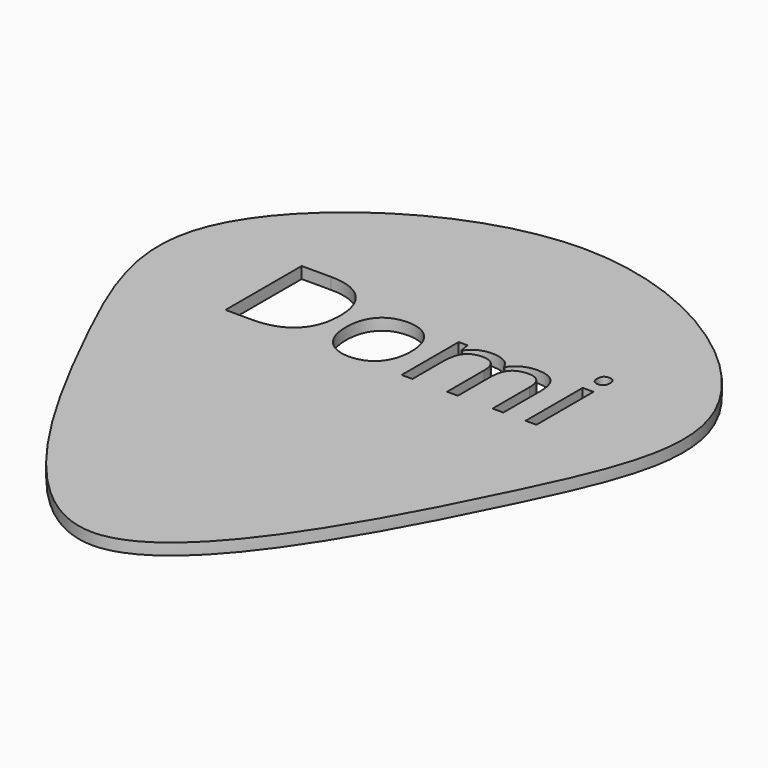
from build123d import *

# Parameters (mm, degrees)
F0_W     = 0.5631510417
F0_H     = 3.7163628472
F1_DEPTH = 0.6


with BuildPart() as f1:
    # F0 (on Top) → F1 (new body)
    with BuildSketch(Plane.XY):
        with BuildLine():
            add(Edge.make_bspline(
                [(0, -13.3484860004), (-4.1261352973, -13.3484860004), (-11.5695883563, 0.5525926673), (-16.058339722, 11.46014805), (0, 22.5159383761), (16.058339722, 11.46014805), (11.5695883563, 0.5525926673), (4.1261352973, -13.3484860004), (0, -13.3484860004)],
                knots=[0, 0, 0, 0, 0.18262571, 0.3294525753, 0.5, 0.6705474247, 0.81737429, 1, 1, 1, 1], degree=3))
        make_face()
        with BuildLine():
            add(Edge.make_bspline(
                [(-4.6929253472, 9.6457678287), (-4.0521918403, 9.0050343217), (-4.0521918403, 7.8548607106)],
                knots=[0, 0, 0, 1, 1, 1], degree=2))
            add(Edge.make_bspline(
                [(-4.0521918403, 7.8548607106), (-4.0521918403, 6.6276471689), (-4.7184244792, 5.9782331064)],
                knots=[0, 0, 0, 1, 1, 1], degree=2))
            add(Edge.make_bspline(
                [(-4.7184244792, 5.9782331064), (-5.3846571181, 5.3288190439), (-6.6357421875, 5.3288190439)],
                knots=[0, 0, 0, 1, 1, 1], degree=2))
            Line((-6.6357421875, 5.3288190439), (-8.0094401042, 5.3288190439))
            Line((-8.0094401042, 5.3288190439), (-8.0094401042, 10.2865013356))
            Line((-8.0094401042, 10.2865013356), (-6.4903428819, 10.2865013356))
            add(Edge.make_bspline(
                [(-6.4903428819, 10.2865013356), (-5.3336588542, 10.2865013356), (-4.6929253472, 9.6457678287)],
                knots=[0, 0, 0, 1, 1, 1], degree=2))
        make_face(mode=Mode.SUBTRACT)
        with BuildLine():
            add(Edge.make_bspline(
                [(-0.283203125, 8.594335537), (0.1763237847, 8.0751298078), (0.1763237847, 7.1907982106)],
                knots=[0, 0, 0, 1, 1, 1], degree=2))
            add(Edge.make_bspline(
                [(0.1763237847, 7.1907982106), (0.1763237847, 6.2815100162), (-0.2810329861, 5.7709848425)],
                knots=[0, 0, 0, 1, 1, 1], degree=2))
            add(Edge.make_bspline(
                [(-0.2810329861, 5.7709848425), (-0.7383897569, 5.2604596689), (-1.5456814236, 5.2604596689)],
                knots=[0, 0, 0, 1, 1, 1], degree=2))
            add(Edge.make_bspline(
                [(-1.5456814236, 5.2604596689), (-2.0448133681, 5.2604596689), (-2.4310980903, 5.4948346689)],
                knots=[0, 0, 0, 1, 1, 1], degree=2))
            add(Edge.make_bspline(
                [(-2.4310980903, 5.4948346689), (-2.8173828125, 5.7292096689), (-3.0278862847, 6.166492655)],
                knots=[0, 0, 0, 1, 1, 1], degree=2))
            add(Edge.make_bspline(
                [(-3.0278862847, 6.166492655), (-3.2383897569, 6.6037756412), (-3.2383897569, 7.1907982106)],
                knots=[0, 0, 0, 1, 1, 1], degree=2))
            add(Edge.make_bspline(
                [(-3.2383897569, 7.1907982106), (-3.2383897569, 8.0990013356), (-2.7837456597, 8.6062713009)],
                knots=[0, 0, 0, 1, 1, 1], degree=2))
            add(Edge.make_bspline(
                [(-2.7837456597, 8.6062713009), (-2.3291015625, 9.1135412662), (-1.5218098958, 9.1135412662)],
                knots=[0, 0, 0, 1, 1, 1], degree=2))
            add(Edge.make_bspline(
                [(-1.5218098958, 9.1135412662), (-0.7427300347, 9.1135412662), (-0.283203125, 8.594335537)],
                knots=[0, 0, 0, 1, 1, 1], degree=2))
        make_face(mode=Mode.SUBTRACT)
        with BuildLine():
            Line((6.4632161458, 5.3288190439), (5.9011501736, 5.3288190439))
            Line((5.9011501736, 5.3288190439), (5.9011501736, 7.7463537662))
            add(Edge.make_bspline(
                [(5.9011501736, 7.7463537662), (5.9011501736, 8.1912322384), (5.7112630208, 8.4131289398)],
                knots=[0, 0, 0, 1, 1, 1], degree=2))
            add(Edge.make_bspline(
                [(5.7112630208, 8.4131289398), (5.5213758681, 8.6350256412), (5.1209852431, 8.6350256412)],
                knots=[0, 0, 0, 1, 1, 1], degree=2))
            add(Edge.make_bspline(
                [(5.1209852431, 8.6350256412), (4.5958116319, 8.6350256412), (4.3446180556, 8.3333763356)],
                knots=[0, 0, 0, 1, 1, 1], degree=2))
            add(Edge.make_bspline(
                [(4.3446180556, 8.3333763356), (4.0934244792, 8.03172703), (4.0934244792, 7.4045568912)],
                knots=[0, 0, 0, 1, 1, 1], degree=2))
            Line((4.0934244792, 7.4045568912), (4.0934244792, 5.3288190439))
            Line((4.0934244792, 5.3288190439), (3.5302734375, 5.3288190439))
            Line((3.5302734375, 5.3288190439), (3.5302734375, 7.7463537662))
            add(Edge.make_bspline(
                [(3.5302734375, 7.7463537662), (3.5302734375, 8.1912322384), (3.3403862847, 8.4131289398)],
                knots=[0, 0, 0, 1, 1, 1], degree=2))
            add(Edge.make_bspline(
                [(3.3403862847, 8.4131289398), (3.1504991319, 8.6350256412), (2.7468532986, 8.6350256412)],
                knots=[0, 0, 0, 1, 1, 1], degree=2))
            add(Edge.make_bspline(
                [(2.7468532986, 8.6350256412), (2.2184244792, 8.6350256412), (1.97265625, 8.3181853634)],
                knots=[0, 0, 0, 1, 1, 1], degree=2))
            add(Edge.make_bspline(
                [(1.97265625, 8.3181853634), (1.7268880208, 8.0013450856), (1.7268880208, 7.2786888356)],
                knots=[0, 0, 0, 1, 1, 1], degree=2))
            Line((1.7268880208, 7.2786888356), (1.7268880208, 5.3288190439))
            Line((1.7268880208, 5.3288190439), (1.1637369792, 5.3288190439))
            Line((1.1637369792, 5.3288190439), (1.1637369792, 9.0451818912))
            Line((1.1637369792, 9.0451818912), (1.6216362847, 9.0451818912))
            Line((1.6216362847, 9.0451818912), (1.7127821181, 8.5362843217))
            Line((1.7127821181, 8.5362843217), (1.7399088542, 8.5362843217))
            add(Edge.make_bspline(
                [(1.7399088542, 8.5362843217), (1.8994140625, 8.8075516828), (2.1896701389, 8.9605464745)],
                knots=[0, 0, 0, 1, 1, 1], degree=2))
            add(Edge.make_bspline(
                [(2.1896701389, 8.9605464745), (2.4799262153, 9.1135412662), (2.8390842014, 9.1135412662)],
                knots=[0, 0, 0, 1, 1, 1], degree=2))
            add(Edge.make_bspline(
                [(2.8390842014, 9.1135412662), (3.7103949653, 9.1135412662), (3.9784071181, 8.4820308495)],
                knots=[0, 0, 0, 1, 1, 1], degree=2))
            Line((3.9784071181, 8.4820308495), (4.0055338542, 8.4820308495))
            add(Edge.make_bspline(
                [(4.0055338542, 8.4820308495), (4.1715494792, 8.77391453), (4.4867621528, 8.9437278981)],
                knots=[0, 0, 0, 1, 1, 1], degree=2))
            add(Edge.make_bspline(
                [(4.4867621528, 8.9437278981), (4.8019748264, 9.1135412662), (5.2056206597, 9.1135412662)],
                knots=[0, 0, 0, 1, 1, 1], degree=2))
            add(Edge.make_bspline(
                [(5.2056206597, 9.1135412662), (5.8360460069, 9.1135412662), (6.1496310764, 8.789648037)],
                knots=[0, 0, 0, 1, 1, 1], degree=2))
            add(Edge.make_bspline(
                [(6.1496310764, 8.789648037), (6.4632161458, 8.4657548078), (6.4632161458, 7.7528641828)],
                knots=[0, 0, 0, 1, 1, 1], degree=2))
            Line((6.4632161458, 7.7528641828), (6.4632161458, 5.3288190439))
        make_face(mode=Mode.SUBTRACT)
        with Locations((7.9047309028, 7.1870004675)):
            Rectangle(F0_W, F0_H, mode=Mode.SUBTRACT)
        with BuildLine():
            add(Edge.make_bspline(
                [(7.6703559028, 9.7689232106), (7.5754123264, 9.8622391828), (7.5754123264, 10.0521263356)],
                knots=[0, 0, 0, 1, 1, 1], degree=2))
            add(Edge.make_bspline(
                [(7.5754123264, 10.0521263356), (7.5754123264, 10.2452686967), (7.6703559028, 10.3353294606)],
                knots=[0, 0, 0, 1, 1, 1], degree=2))
            add(Edge.make_bspline(
                [(7.6703559028, 10.3353294606), (7.7652994792, 10.4253902245), (7.9085286458, 10.4253902245)],
                knots=[0, 0, 0, 1, 1, 1], degree=2))
            add(Edge.make_bspline(
                [(7.9085286458, 10.4253902245), (8.0441623264, 10.4253902245), (8.1423611111, 10.3337018564)],
                knots=[0, 0, 0, 1, 1, 1], degree=2))
            add(Edge.make_bspline(
                [(8.1423611111, 10.3337018564), (8.2405598958, 10.2420134884), (8.2405598958, 10.0521263356)],
                knots=[0, 0, 0, 1, 1, 1], degree=2))
            add(Edge.make_bspline(
                [(8.2405598958, 10.0521263356), (8.2405598958, 9.8622391828), (8.1423611111, 9.7689232106)],
                knots=[0, 0, 0, 1, 1, 1], degree=2))
            add(Edge.make_bspline(
                [(8.1423611111, 9.7689232106), (8.0441623264, 9.6756072384), (7.9085286458, 9.6756072384)],
                knots=[0, 0, 0, 1, 1, 1], degree=2))
            add(Edge.make_bspline(
                [(7.9085286458, 9.6756072384), (7.7652994792, 9.6756072384), (7.6703559028, 9.7689232106)],
                knots=[0, 0, 0, 1, 1, 1], degree=2))
        make_face(mode=Mode.SUBTRACT)
    extrude(amount=F1_DEPTH)


solid = f1.part
